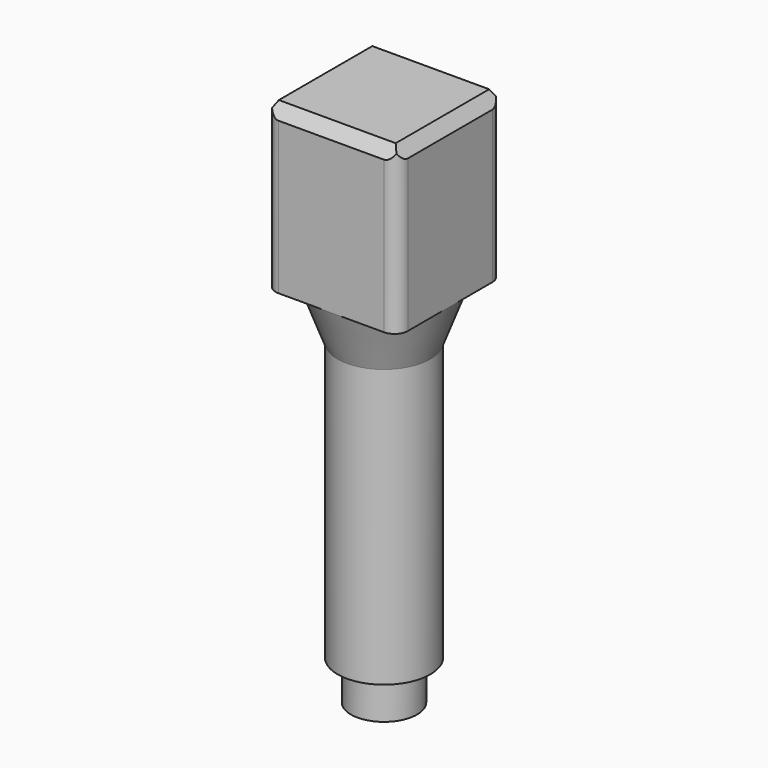
from build123d import *

# Parameters (mm, degrees)
F0_W     = 20
F0_H     = 20
F1_DEPTH = 23
F2_W     = 20
F2_H     = 20
F3_DEPTH = 2
F3_TAPER = 30
F6_R     = 2


with BuildPart() as f1:
    # F0 (on Top) → F1 (new body)
    with BuildSketch(Plane.XY):
        Rectangle(F0_W, F0_H)
    extrude(amount=F1_DEPTH)

    # F2 (on face) → F3 (join)
    with BuildSketch(Plane.XY.offset(23)):
        Rectangle(F2_W, F2_H)
    extrude(amount=F3_DEPTH, taper=F3_TAPER)

    # F4 (on Front) → F5 (revolve)
    with BuildSketch(Plane.XZ):
        Polygon((0, -56), (0, 0), (-10, 0), (-7, -8), (-7, -50), (-5, -50), (-5, -56), align=None)
    revolve(axis=Axis((0, 0, -28), (0, 0, -1)))

    # F6
    f6_edges = [f1.edges().sort_by_distance(p)[0] for p in [
        (-10, 10, 11.5),
        (-10, -10, 11.5),
        (10, -10, 11.5),
        (10, 10, 11.5),
    ]]
    fillet(f6_edges, radius=F6_R)


solid = f1.part
